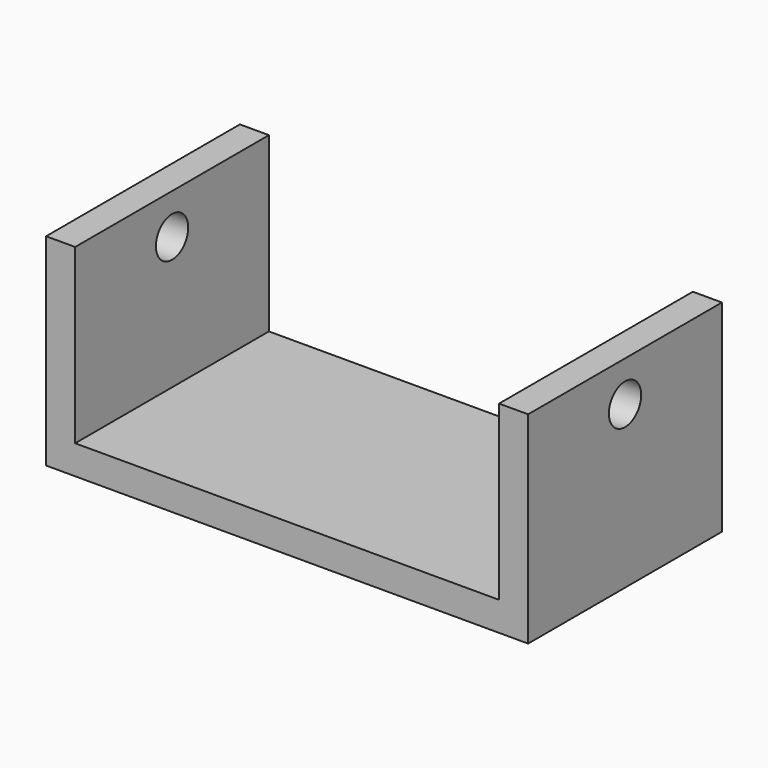
from build123d import *

# Parameters (mm, degrees)
F1_DEPTH = 76.2
F2_R     = 6.35
F3_DEPTH = 151.639


with BuildPart() as f1:
    # F0 (on Front) → F1 (new body)
    with BuildSketch(Plane.XZ):
        Polygon((94.677072, 0), (-38.672928, 0), (-38.672928, 54.356), (-47.816928, 54.356), (-47.816928, -9.144), (103.821072, -9.144), (103.821072, 54.356), (94.677072, 54.356), align=None)
    extrude(amount=F1_DEPTH)

    # F2 (on face) → F3 (cut, through all)
    with BuildSketch(Plane.YZ.offset(103.821072)):
        with Locations((-38.1, 41.656)):
            Circle(F2_R)
    extrude(amount=-F3_DEPTH, mode=Mode.SUBTRACT)


solid = f1.part
